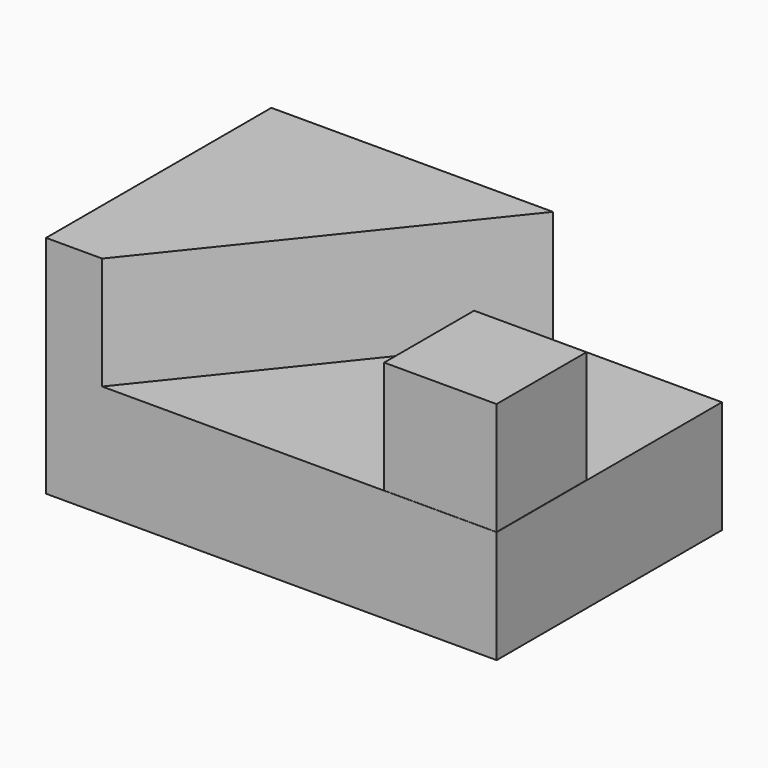
from build123d import *

# Parameters (mm, degrees)
F0_W     = 50.8
F0_H     = 25.4
F1_DEPTH = 31.75
F2_W     = 19.05
F2_H     = 12.7
F3_DEPTH = 19.05
F6_DEPTH = 12.7


with BuildPart() as f1:
    # F0 (on Front) → F1 (new body)
    with BuildSketch(Plane.XZ):
        with Locations((25.4, 12.7)):
            Rectangle(F0_W, F0_H)
    extrude(amount=F1_DEPTH)

    # F2 (on face) → F3 (cut)
    with BuildSketch(Plane.YZ.offset(50.8)):
        with Locations((-9.525, 19.05)):
            Rectangle(F2_W, F2_H)
    extrude(amount=-F3_DEPTH, mode=Mode.SUBTRACT)

    # F5 (on face) → F6 (cut)
    with BuildSketch(Plane.XY.offset(25.4)):
        Polygon((50.768599, -31.724313), (38.1, -31.724313), (38.1, -19.05), (31.75, -19.05), (31.75, 0), (6.32382, -31.75), (50.8, -31.75), (50.8, -19.05), (50.347392, -19.05), (50.768599, -19.064216), align=None)
    extrude(amount=-F6_DEPTH, mode=Mode.SUBTRACT)


solid = f1.part
